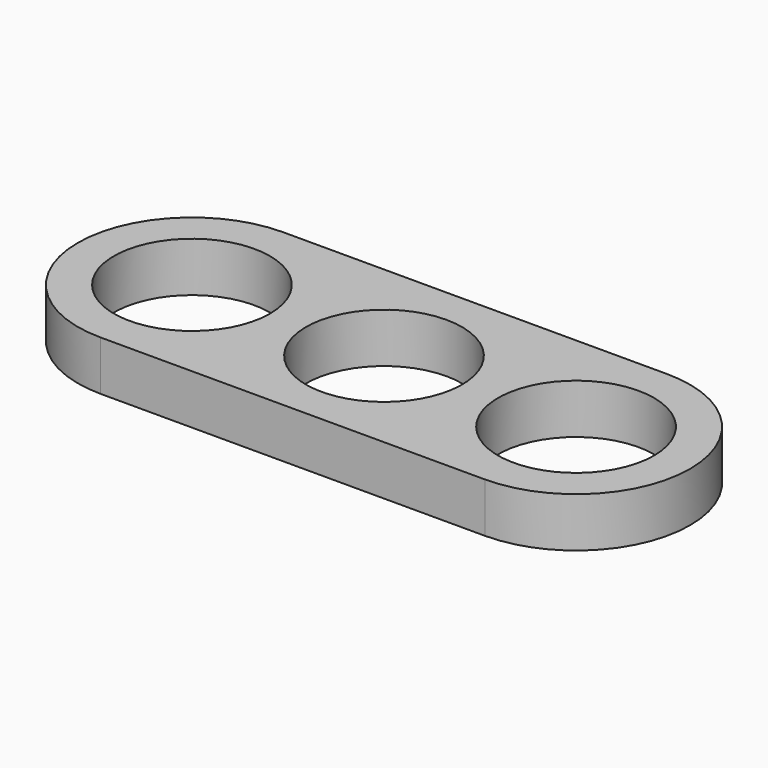
from build123d import *

# Parameters (mm, degrees)
F0_R     = 11
F1_DEPTH = 7


with BuildPart() as f1:
    # F0 (on Top) → F1 (new body)
    with BuildSketch(Plane.XY):
        with BuildLine():
            ThreePointArc((-27.08, 16.08), (-43.16, 0), (-27.08, -16.08))
            Line((-27.08, -16.08), (27.08, -16.08))
            ThreePointArc((27.08, -16.08), (43.16, 0), (27.08, 16.08))
            Line((27.08, 16.08), (-27.08, 16.08))
        make_face()
        with Locations((-27.08, 0)):
            Circle(F0_R, mode=Mode.SUBTRACT)
        with BuildLine():
            ThreePointArc((0, -11), (-11, 0), (0, 11))
            ThreePointArc((0, 11), (11, 0), (0, -11))
        make_face(mode=Mode.SUBTRACT)
        with Locations((27.08, 0)):
            Circle(F0_R, mode=Mode.SUBTRACT)
    extrude(amount=F1_DEPTH)


solid = f1.part
